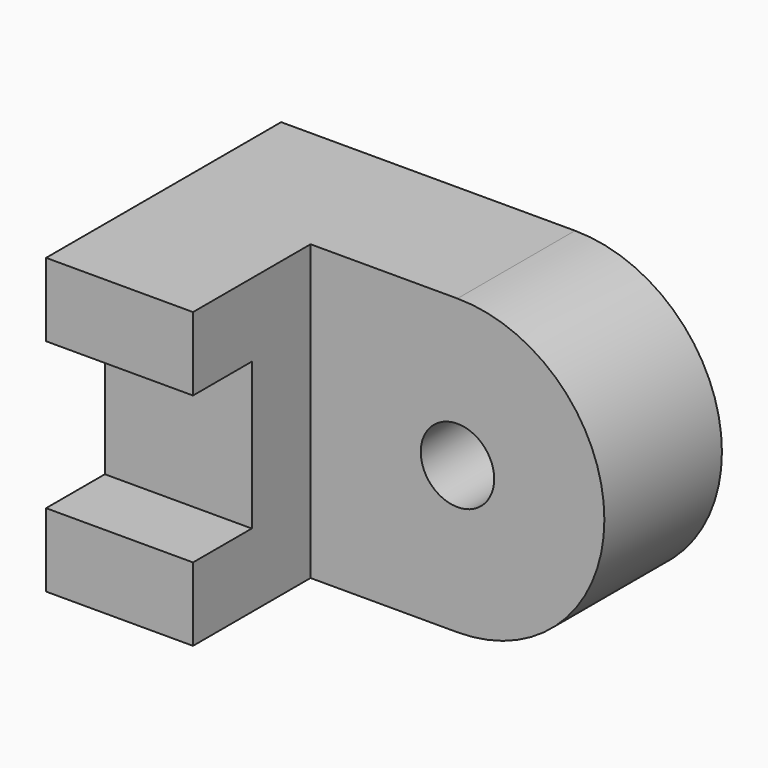
from build123d import *

# Parameters (mm, degrees)
F0_W     = 12.7
F0_H     = 25.4
F1_DEPTH = 12.7
F2_W     = 6.35
F2_H     = 12.7
F3_DEPTH = 12.7
F4_W     = 12.7
F4_H     = 25.4
F5_DEPTH = 12.7
F7_DEPTH = 12.7
F8_R     = 3.175
F9_DEPTH = 12.7


with BuildPart() as f1:
    # F0 (on Front) → F1 (new body, symmetric)
    with BuildSketch(Plane.XZ):
        with Locations((-6.35, 12.7)):
            Rectangle(F0_W, F0_H)
    extrude(amount=F1_DEPTH, both=True)

    # F2 (on Right) → F3 (cut)
    with BuildSketch(Plane.YZ):
        with Locations((-9.525, 12.7)):
            Rectangle(F2_W, F2_H)
    extrude(amount=-F3_DEPTH, mode=Mode.SUBTRACT)

    # F4 (on face) → F5 (join)
    with BuildSketch(Plane.YZ):
        with Locations((6.35, 12.7)):
            Rectangle(F4_W, F4_H)
    extrude(amount=F5_DEPTH)

    # F6 (on face) → F7 (join)
    with BuildSketch(Plane.XZ):
        with BuildLine():
            Line((12.7, 25.4), (12.7, 0))
            ThreePointArc((12.7, 0), (25.4, 12.7), (12.7, 25.4))
        make_face()
    extrude(amount=-F7_DEPTH)

    # F8 (on face) → F9 (cut)
    with BuildSketch(Plane.XZ):
        with Locations((12.7, 12.7)):
            Circle(F8_R)
    extrude(amount=-F9_DEPTH, mode=Mode.SUBTRACT)


solid = f1.part
